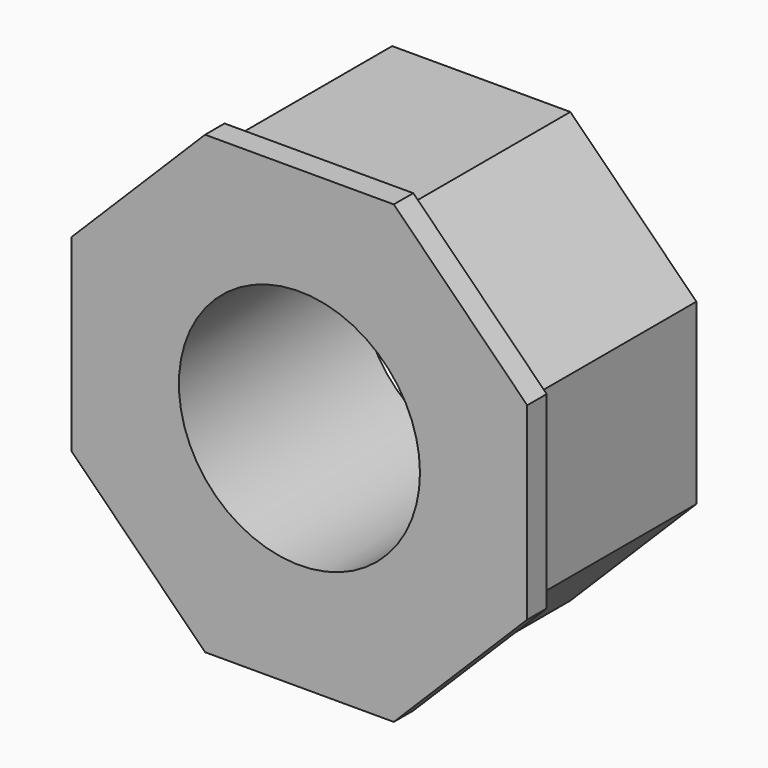
from build123d import *

# Parameters (mm, degrees)
F1_DEPTH = 25.4
F3_DEPTH = 3.048
F4_R     = 15.0876
F5_DEPTH = 28.449


with BuildPart() as f1:
    # F0 (on Front) → F1 (new body)
    with BuildSketch(Plane.XZ):
        Polygon((11.152286, 26.924), (-11.152286, 26.924), (-26.924, 11.152286), (-26.924, -11.152286), (-11.152286, -26.924), (11.152286, -26.924), (26.924, -11.152286), (26.924, 11.152286), align=None)
    extrude(amount=F1_DEPTH)

    # F2 (on face) → F3 (join)
    with BuildSketch(Plane.XZ.offset(25.4)):
        Polygon((11.80985, 28.5115), (-11.80985, 28.5115), (-28.5115, 11.80985), (-28.5115, -11.80985), (-11.80985, -28.5115), (11.80985, -28.5115), (28.5115, -11.80985), (28.5115, 11.80985), align=None)
    extrude(amount=F3_DEPTH)

    # F4 (on face) → F5 (cut, through all)
    with BuildSketch(Plane.XZ.offset(28.448)):
        Circle(F4_R)
    extrude(amount=-F5_DEPTH, mode=Mode.SUBTRACT)


solid = f1.part
